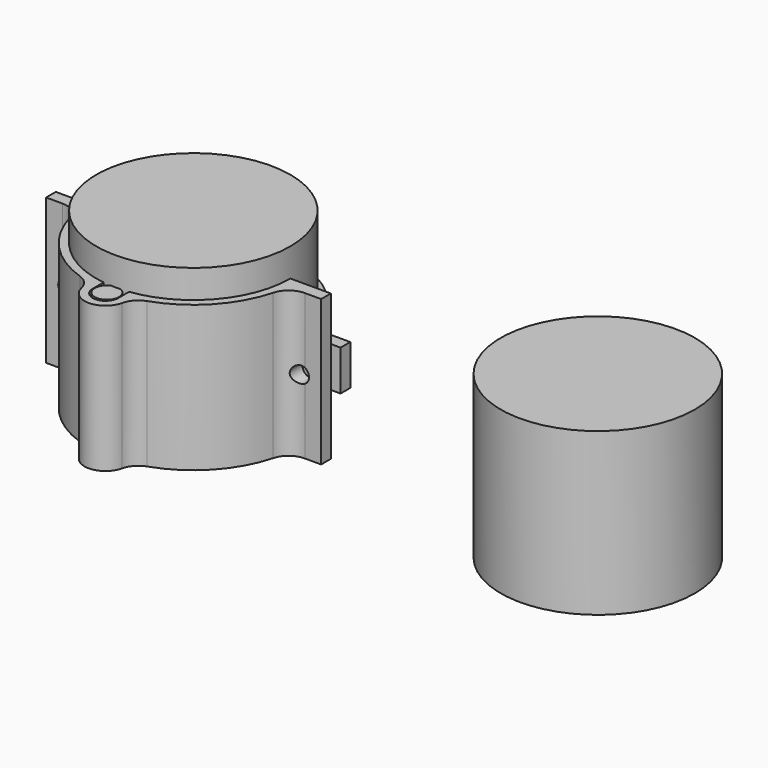
from build123d import *

# Parameters (mm, degrees)
SKETCH_R             = 24
PAD_DEPTH            = 43
SKETCH001_R          = 24
PAD001_DEPTH         = 40
SKETCH002_R          = 3
PAD002_DEPTH         = 36
PAD003_DEPTH         = 36
SKETCH007_R          = 2
POCKET001_DEPTH      = 32.301
POCKET001_DEPTH_BACK = -0.001
PAD004_DEPTH         = 10
SKETCH005_R          = 2
POCKET_DEPTH         = 26.000994
POCKET_DEPTH_BACK    = -0.001


with BuildPart() as p1:
    # Sketch → Pad (new body)
    with BuildSketch(Plane.XY):
        Circle(SKETCH_R)
    extrude(amount=PAD_DEPTH)


with BuildPart() as p_boiler:
    # Sketch001 → Pad001 (new body)
    with BuildSketch(Plane.XY):
        Circle(SKETCH001_R)
    extrude(amount=PAD001_DEPTH)


with BuildPart() as p_boiler_1:
    # Body001 placement: moved
    add(p_boiler.part.moved(Location((100, 0, 0))))


with BuildPart() as obj1:
    # Sketch002 → Pad002 (new body)
    with BuildSketch(Plane.XY):
        Circle(SKETCH002_R)
    extrude(amount=PAD002_DEPTH)


with BuildPart() as obj1_1:
    # Body002 placement: moved
    add(obj1.part.moved(Location((0, -26.7, 0))))


with BuildPart() as m1:
    # Sketch003 → Pad003 (new body)
    with BuildSketch(Plane.XY):
        with BuildLine():
            ThreePointArc((-25.11932, -6.709677), (-18.964745, -17.785906), (-8.305716, -24.637676))
            ThreePointArc((-5.024659, -28.279291), (-6.188327, -26.028837), (-8.305716, -24.637676))
            ThreePointArc((-5.024659, -28.279291), (0, -32.3), (5.024659, -28.279291))
            ThreePointArc((8.305716, -24.637676), (6.188327, -26.028837), (5.024659, -28.279291))
            ThreePointArc((8.305716, -24.637676), (18.964745, -17.785906), (25.11932, -6.709677))
            ThreePointArc((29.949958, -3), (26.904602, -4.034422), (25.11932, -6.709677))
            Line((34, -3), (29.949958, -3))
            Line((34, -3), (34, 0))
            Line((34, 0), (24, 0))
            ThreePointArc((3.15, -23.792383), (18.049931, -15.817712), (24, 0))
            Line((3.15, -27.149999), (3.15, -23.792383))
            ThreePointArc((-3.14509, -26.974193), (-0.087937, -30.298772), (3.15, -27.149999))
            Line((-3.14509, -26.974193), (-3.14509, -23.793033))
            ThreePointArc((-24, 0), (-18.048299, -15.819574), (-3.14509, -23.793033))
            Line((-34, 0), (-24, 0))
            Line((-34, -3), (-34, 0))
            Line((-34, -3), (-29.949958, -3))
            ThreePointArc((-25.11932, -6.709677), (-26.904602, -4.034422), (-29.949958, -3))
        make_face()
    extrude(amount=PAD003_DEPTH)

    # Sketch007 (on Face9 of Pad003) → Pocket001 (cut, two sides)
    with BuildSketch(Plane(origin=(0, 0, 0), x_dir=(-1, 0, 0), z_dir=(0, 1, 0))) as pocket001_sk:
        with Locations((-29, 18)):
            Circle(SKETCH007_R)
        with Locations((29, 18)):
            Circle(SKETCH007_R)
    extrude(amount=-POCKET001_DEPTH, mode=Mode.SUBTRACT)
    extrude(pocket001_sk.sketch, amount=-POCKET001_DEPTH_BACK, mode=Mode.SUBTRACT)


with BuildPart() as m2:
    # Sketch004 → Pad004 (new body)
    with BuildSketch(Plane.XY):
        with BuildLine():
            ThreePointArc((23.811762, 3), (0, 24), (-23.811762, 3))
            Line((-34, 3), (-23.811762, 3))
            Line((-34, 3), (-34, 6))
            Line((-34, 6), (-28.982747, 6))
            ThreePointArc((-28.982747, 6), (-26.142938, 6.884725), (-24.308109, 9.225806))
            ThreePointArc((24.308109, 9.225806), (0, 25.999994), (-24.308109, 9.225806))
            ThreePointArc((24.308109, 9.225806), (26.142938, 6.884725), (28.982747, 6))
            Line((34, 6), (28.982747, 6))
            Line((34, 3), (34, 6))
            Line((23.811762, 3), (34, 3))
        make_face()
    extrude(amount=PAD004_DEPTH)

    # Sketch005 → Pocket (cut, two sides)
    with BuildSketch(Plane.XZ) as pocket_sk:
        with Locations((-28.905881, 5)):
            Circle(SKETCH005_R)
        with Locations((28.905881, 5)):
            Circle(SKETCH005_R)
    extrude(amount=-POCKET_DEPTH, mode=Mode.SUBTRACT)
    extrude(pocket_sk.sketch, amount=-POCKET_DEPTH_BACK, mode=Mode.SUBTRACT)


with BuildPart() as m2_1:
    # Body004 placement: moved
    add(m2.part.moved(Location((0, 0, 13))))


solid = Compound([p1.part, p_boiler_1.part, obj1_1.part, m1.part, m2_1.part])
